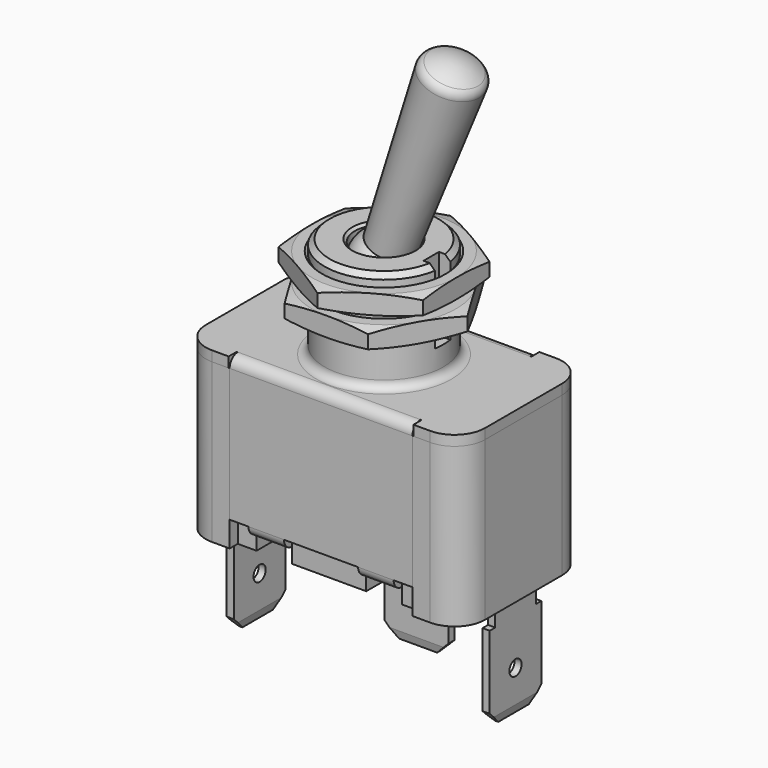
from build123d import *

# Parameters (mm, degrees)
SKETCH_W                = 27.5
SKETCH_H                = 15.5
PAD_DEPTH               = 15.62
FILLET_R                = 3
SKETCH001_W             = 18
SKETCH001_H             = 2
POCKET_DEPTH            = 15.621
SKETCH002_W             = 3.5
SKETCH002_H             = 4
POCKET001_DEPTH         = 2.5
SKETCH003_W             = 27.5
SKETCH003_H             = 15.5
PAD001_DEPTH            = 1
FILLET001_R             = 3
SKETCH004_W             = 18
SKETCH004_H             = 1
PAD002_DEPTH            = 13.12
SKETCH005_W             = 0.1
SKETCH005_H             = 1
POCKET002_DEPTH         = 5
FILLET002_R             = 1
SKETCH006_W             = 3.5
SKETCH006_H             = 3.5
PAD003_DEPTH            = 1
FILLET003_R             = 1
SKETCH007_R             = 5.85
PAD004_DEPTH            = 10
FILLET004_R             = 0.8
CHAMFER_SIZE            = 0.5
SKETCH008_R             = 2.875
POCKET003_DEPTH         = 5
SKETCH009_W             = 2
SKETCH009_H             = 1.9
POCKET004_DEPTH         = 7.25
CHAMFER001_SIZE         = 0.25
BODY002_PLACEMENT_ANGLE = 340
SKETCH011_R             = 1
PAD005_DEPTH            = 0.7
SKETCH012_R             = 0.75
PAD006_DEPTH            = 0.7
FILLET005_R             = 0.7
CHAMFER002_1_SIZE2      = 0.2
CHAMFER002_1_SIZE       = 0.8
CHAMFER002_2_SIZE2      = 0.2
CHAMFER002_2_SIZE       = 0.8
SKETCH014_R             = 1
PAD007_DEPTH            = 0.7
SKETCH015_R             = 0.75
PAD008_DEPTH            = 0.7
FILLET006_R             = 0.7
CHAMFER003_1_SIZE2      = 0.2
CHAMFER003_1_SIZE       = 0.8
CHAMFER003_2_SIZE2      = 0.2
CHAMFER003_2_SIZE       = 0.8
BODY005_PLACEMENT_ANGLE = 270
SKETCH018_R             = 11.711276
POCKET005_DEPTH         = 5
CHAMFER004_SIZE         = 0.25
SKETCH020_R             = 11.711276
POCKET006_DEPTH         = 5
CHAMFER005_SIZE         = 0.25
BODY008_PLACEMENT_ANGLE = 330
SKETCH021_R             = 1
PAD009_DEPTH            = 0.7
SKETCH022_R             = 0.75
PAD010_DEPTH            = 0.7
FILLET007_R             = 0.7
CHAMFER006_1_SIZE2      = 0.2
CHAMFER006_1_SIZE       = 0.8
CHAMFER006_2_SIZE2      = 0.2
CHAMFER006_2_SIZE       = 0.8
BODY009_PLACEMENT_ANGLE = 90


with BuildPart() as body:
    # Sketch → Pad (new body)
    with BuildSketch(Plane.XY):
        Rectangle(SKETCH_W, SKETCH_H)
    extrude(amount=-PAD_DEPTH)

    # Fillet
    fillet_edges = [body.edges().sort_by_distance(p)[0] for p in [
        (-13.75, -7.75, -7.81),
        (13.75, -7.75, -7.81),
        (13.75, 7.75, -7.81),
        (-13.75, 7.75, -7.81),
    ]]
    fillet(fillet_edges, radius=FILLET_R)

    # Sketch001 (on Face5 of Fillet) → Pocket (cut, through all)
    with BuildSketch(Plane(origin=(0, 0, -15.62), x_dir=(1, 0, 0), z_dir=(0, 0, -1))):
        with Locations((0, 7.75)):
            Rectangle(SKETCH001_W, SKETCH001_H)
        with Locations((0, -7.75)):
            Rectangle(SKETCH001_W, SKETCH001_H)
    extrude(amount=-POCKET_DEPTH, mode=Mode.SUBTRACT)

    # Sketch002 (on Face4 of Pocket) → Pocket001 (cut)
    with BuildSketch(Plane(origin=(0, 0, -15.62), x_dir=(1, 0, 0), z_dir=(0, 0, -1))):
        with BuildLine():
            ThreePointArc((8.25, 2.5), (5.75, 0), (8.25, -2.5))
            Line((8.25, -2.5), (12.95, -2.5))
            Line((12.95, 2.5), (12.95, -2.5))
            Line((12.95, 2.5), (8.25, 2.5))
        make_face()
        with BuildLine():
            ThreePointArc((-8.25, -2.5), (-5.75, 0), (-8.25, 2.5))
            Line((-8.25, 2.5), (-12.95, 2.5))
            Line((-12.95, 2.5), (-12.95, -2.5))
            Line((-12.95, -2.5), (-8.25, -2.5))
        make_face()
        with BuildLine():
            ThreePointArc((2.5, 0), (0, 2.5), (-2.5, 0))
            Line((-2.5, 0), (-2.5, -4.7))
            Line((-2.5, -4.7), (2.5, -4.7))
            Line((2.5, -4.7), (2.5, 0))
        make_face()
        with Locations((-5.4, 6.25)):
            Rectangle(SKETCH002_W, SKETCH002_H)
        with Locations((5.4, 6.25)):
            Rectangle(SKETCH002_W, SKETCH002_H)
        with Locations((-5.4, -6.25)):
            Rectangle(SKETCH002_W, SKETCH002_H)
        with Locations((5.4, -6.25)):
            Rectangle(SKETCH002_W, SKETCH002_H)
    extrude(amount=-POCKET001_DEPTH, mode=Mode.SUBTRACT)


with BuildPart() as body001:
    # Sketch003 → Pad001 (new body)
    with BuildSketch(Plane.XY):
        Rectangle(SKETCH003_W, SKETCH003_H)
    extrude(amount=PAD001_DEPTH)

    # Fillet001
    fillet001_edges = [body001.edges().sort_by_distance(p)[0] for p in [
        (-13.75, -7.75, 0.5),
        (13.75, -7.75, 0.5),
        (13.75, 7.75, 0.5),
        (-13.75, 7.75, 0.5),
    ]]
    fillet(fillet001_edges, radius=FILLET001_R)

    # Sketch004 (on Face2 of Fillet001) → Pad002 (join)
    with BuildSketch(Plane(origin=(0, 0, 0), x_dir=(1, 0, 0), z_dir=(0, 0, -1))):
        with Locations((0, 7.25)):
            Rectangle(SKETCH004_W, SKETCH004_H)
        with Locations((0, -7.25)):
            Rectangle(SKETCH004_W, SKETCH004_H)
    extrude(amount=PAD002_DEPTH)

    # Sketch005 (on Face1 of Pad002) → Pocket002 (cut)
    with BuildSketch(Plane(origin=(0, 0, 0), x_dir=(1, 0, 0), z_dir=(0, 0, -1))):
        with Locations((9.05, 7.25)):
            Rectangle(SKETCH005_W, SKETCH005_H)
        with Locations((-9.05, 7.25)):
            Rectangle(SKETCH005_W, SKETCH005_H)
        with Locations((-9.05, -7.25)):
            Rectangle(SKETCH005_W, SKETCH005_H)
        with Locations((9.05, -7.25)):
            Rectangle(SKETCH005_W, SKETCH005_H)
    extrude(amount=-POCKET002_DEPTH, mode=Mode.SUBTRACT)

    # Fillet002
    fillet002_edges = [body001.edges().sort_by_distance(p)[0] for p in [
        (0, 7.75, 1),
        (0, -7.75, 1),
    ]]
    fillet(fillet002_edges, radius=FILLET002_R)

    # Sketch006 (on Face31 of Fillet002) → Pad003 (join)
    with BuildSketch(Plane(origin=(0, 0, -13.12), x_dir=(1, 0, 0), z_dir=(0, 0, -1))):
        with Locations((-5.4, -6)):
            Rectangle(SKETCH006_W, SKETCH006_H)
        with Locations((5.4, -6)):
            Rectangle(SKETCH006_W, SKETCH006_H)
        with Locations((5.4, 6)):
            Rectangle(SKETCH006_W, SKETCH006_H)
        with Locations((-5.4, 6)):
            Rectangle(SKETCH006_W, SKETCH006_H)
    extrude(amount=PAD003_DEPTH)

    # Fillet003
    fillet003_edges = [body001.edges().sort_by_distance(p)[0] for p in [
        (-5.4, 7.75, -14.12),
        (5.4, 7.75, -14.12),
        (5.4, -7.75, -14.12),
        (-5.4, -7.75, -14.12),
    ]]
    fillet(fillet003_edges, radius=FILLET003_R)

    # Sketch007 (on Face22 of Fillet003) → Pad004 (join)
    with BuildSketch(Plane.XY.offset(1)):
        Circle(SKETCH007_R)
    extrude(amount=PAD004_DEPTH)

    # Fillet004
    fillet004_edges = [body001.edges().sort_by_distance(p)[0] for p in [
        (-5.85, 0, 1),
    ]]
    fillet(fillet004_edges, radius=FILLET004_R)

    # Chamfer
    chamfer_edges = [body001.edges().sort_by_distance(p)[0] for p in [
        (-5.85, 0, 11),
    ]]
    chamfer(chamfer_edges, length=CHAMFER_SIZE)

    # Sketch008 (on Face4 of Chamfer) → Pocket003 (cut)
    with BuildSketch(Plane.XY.offset(11)):
        Circle(SKETCH008_R)
    extrude(amount=-POCKET003_DEPTH, mode=Mode.SUBTRACT)

    # Sketch009 (on Face4 of Pocket003) → Pocket004 (cut)
    with BuildSketch(Plane.XY.offset(11)):
        with Locations((5.65, 0)):
            Rectangle(SKETCH009_W, SKETCH009_H)
    extrude(amount=-POCKET004_DEPTH, mode=Mode.SUBTRACT)

    # Chamfer001
    chamfer001_edges = [body001.edges().sort_by_distance(p)[0] for p in [
        (-2.875, 0, 11),
    ]]
    chamfer(chamfer001_edges, length=CHAMFER001_SIZE)


with BuildPart() as body002:
    # Sketch010 → Revolution (revolve)
    with BuildSketch(Plane.XZ):
        with BuildLine():
            ThreePointArc((0, -3), (2.7494384351, -1.2002450966), (2.2, 2.0396078054))
            Line((2.2, 2.0396078054), (2.8991935473, 19.4388425999))
            ThreePointArc((2.8991935473, 19.4388425999), (2.7877332829, 19.9393536383), (2.4428571429, 20.3188205514))
            ThreePointArc((2.4428571429, 20.3188205514), (1.2734878568, 20.8556509793), (0, 21.0396078054))
            Line((0, 21.0396078054), (0, -3))
        make_face()
    revolve(axis=Axis((0, 0, 0), (0, 0, 1)))


with BuildPart() as body002_1:
    # Body002 placement: moved
    add(body002.part.moved(Location((0, 0, 9))).rotate(Axis((0, 0, 9), (0, -1, 0)), BODY002_PLACEMENT_ANGLE))


with BuildPart() as body003:
    # Sketch011 → Pad005 (new body)
    with BuildSketch(Plane.XY):
        with BuildLine():
            ThreePointArc((-2.5, 0), (0, -2.5), (2.5, 0))
            Line((2.5, 0), (2.5, 4.7))
            Line((-2.5, 4.7), (2.5, 4.7))
            Line((-2.5, 4.7), (-2.5, 0))
        make_face()
        Circle(SKETCH011_R, mode=Mode.SUBTRACT)
    extrude(amount=-PAD005_DEPTH)

    # Sketch012 (on Face3 of Pad005) → Pad006 (join)
    with BuildSketch(Plane(origin=(0, 4.7, 0), x_dir=(-1, 0, 0), z_dir=(0, 1, 0))):
        Polygon((-2.5, -0.7), (2.5, -0.7), (2.5, -4.35), (3.175, -4.35), (3.175, -11.55), (1.875, -12.85), (-1.875, -12.85), (-3.175, -11.55), (-3.175, -4.35), (-2.5, -4.35), align=None)
        with Locations((0, -8.85)):
            Circle(SKETCH012_R, mode=Mode.SUBTRACT)
    extrude(amount=-PAD006_DEPTH)

    # Fillet005
    fillet005_edges = [body003.edges().sort_by_distance(p)[0] for p in [
        (0, 4.7, 0),
    ]]
    fillet(fillet005_edges, radius=FILLET005_R)

    # Chamfer002 1
    chamfer002_1_edges = [body003.edges().sort_by_distance(p)[0] for p in [
        (0, 4.7, -12.85),
    ]]
    chamfer002_1_side = body003.faces().sort_by_distance((0, 4.7, -6.887562))[0]
    chamfer(chamfer002_1_edges, length=CHAMFER002_1_SIZE, length2=CHAMFER002_1_SIZE2, reference=chamfer002_1_side)

    # Chamfer002 2
    chamfer002_2_edges = [body003.edges().sort_by_distance(p)[0] for p in [
        (0, 4, -12.85),
    ]]
    chamfer002_2_side = body003.faces().sort_by_distance((0, 4, -6.887562))[0]
    chamfer(chamfer002_2_edges, length=CHAMFER002_2_SIZE, length2=CHAMFER002_2_SIZE2, reference=chamfer002_2_side)


with BuildPart() as body003_1:
    # Body003 placement: moved
    add(body003.part.moved(Location((0, 0, -13.12))))


with BuildPart() as body004:
    # Sketch013 → Revolution001 (revolve)
    with BuildSketch(Plane.YZ):
        Polygon((0, 0), (1, 0), (1, -0.7), (1.35, -0.7), (1.35, -1.2), (0.7, -1.2), (0, -0.5), align=None)
    revolve(axis=Axis((0, 0, 0), (0, 0, 1)))


with BuildPart() as body004_1:
    # Body004 placement: moved
    add(body004.part.moved(Location((0, 0, -13.12))))


with BuildPart() as body005:
    # Sketch014 → Pad007 (new body)
    with BuildSketch(Plane.XY):
        with BuildLine():
            ThreePointArc((-2.5, 0), (0, -2.5), (2.5, 0))
            Line((2.5, 0), (2.5, 4.7))
            Line((-2.5, 4.7), (2.5, 4.7))
            Line((-2.5, 4.7), (-2.5, 0))
        make_face()
        Circle(SKETCH014_R, mode=Mode.SUBTRACT)
    extrude(amount=-PAD007_DEPTH)

    # Sketch015 (on Face3 of Pad007) → Pad008 (join)
    with BuildSketch(Plane(origin=(0, 4.7, 0), x_dir=(-1, 0, 0), z_dir=(0, 1, 0))):
        Polygon((-2.5, -0.7), (2.5, -0.7), (2.5, -4.35), (3.175, -4.35), (3.175, -11.55), (1.875, -12.85), (-1.875, -12.85), (-3.175, -11.55), (-3.175, -4.35), (-2.5, -4.35), align=None)
        with Locations((0, -8.85)):
            Circle(SKETCH015_R, mode=Mode.SUBTRACT)
    extrude(amount=-PAD008_DEPTH)

    # Fillet006
    fillet006_edges = [body005.edges().sort_by_distance(p)[0] for p in [
        (0, 4.7, 0),
    ]]
    fillet(fillet006_edges, radius=FILLET006_R)

    # Chamfer003 1
    chamfer003_1_edges = [body005.edges().sort_by_distance(p)[0] for p in [
        (0, 4.7, -12.85),
    ]]
    chamfer003_1_side = body005.faces().sort_by_distance((0, 4.7, -6.887562))[0]
    chamfer(chamfer003_1_edges, length=CHAMFER003_1_SIZE, length2=CHAMFER003_1_SIZE2, reference=chamfer003_1_side)

    # Chamfer003 2
    chamfer003_2_edges = [body005.edges().sort_by_distance(p)[0] for p in [
        (0, 4, -12.85),
    ]]
    chamfer003_2_side = body005.faces().sort_by_distance((0, 4, -6.887562))[0]
    chamfer(chamfer003_2_edges, length=CHAMFER003_2_SIZE, length2=CHAMFER003_2_SIZE2, reference=chamfer003_2_side)


with BuildPart() as body005_1:
    # Body005 placement: moved
    add(body005.part.moved(Location((8.25, 0, -13.12))).rotate(Axis((8.25, 0, -13.12), (0, 0, 1)), BODY005_PLACEMENT_ANGLE))


with BuildPart() as body006:
    # Sketch016 → Revolution002 (revolve)
    with BuildSketch(Plane.YZ):
        Polygon((0, 0), (1, 0), (1, -0.7), (1.35, -0.7), (1.35, -1.2), (0.7, -1.2), (0, -0.5), align=None)
    revolve(axis=Axis((0, 0, 0), (0, 0, 1)))


with BuildPart() as body006_1:
    # Body006 placement: moved
    add(body006.part.moved(Location((8.25, 0, -13.12))))


with BuildPart() as body007:
    # Sketch017 → Revolution003 (revolve)
    with BuildSketch(Plane.XZ):
        Polygon((5.85, 0.95), (7.11, 0.95), (10.6554482672, 0), (7.11, -0.95), (5.85, -0.95), align=None)
    revolve(axis=Axis((0, 0, 0), (0, 0, 1)))

    # Sketch018 (on Face1 of Revolution003) → Pocket005 (cut)
    with BuildSketch(Plane(origin=(0, 0, 0.95), x_dir=(-1, 0, 0), z_dir=(0, 0, 1))):
        Circle(SKETCH018_R)
        Polygon((0, 8.2099208279), (-7.11, 4.1049604139), (-7.11, -4.1049604139), (0, -8.2099208279), (7.11, -4.1049604139), (7.11, 4.1049604139), align=None, mode=Mode.SUBTRACT)
    extrude(amount=-POCKET005_DEPTH, mode=Mode.SUBTRACT)

    # Chamfer004
    chamfer004_edges = [body007.edges().sort_by_distance(p)[0] for p in [
        (-5.85, 0, 0.95),
        (-5.85, 0, -0.95),
    ]]
    chamfer(chamfer004_edges, length=CHAMFER004_SIZE)


with BuildPart() as body007_1:
    # Body007 placement: moved
    add(body007.part.moved(Location((0, 0, 9))))


with BuildPart() as body008:
    # Sketch019 → Revolution004 (revolve)
    with BuildSketch(Plane.XZ):
        Polygon((5.85, 0.95), (7.11, 0.95), (10.6554482672, 0), (7.11, -0.95), (5.85, -0.95), align=None)
    revolve(axis=Axis((0, 0, 0), (0, 0, 1)))

    # Sketch020 (on Face1 of Revolution004) → Pocket006 (cut)
    with BuildSketch(Plane(origin=(0, 0, 0.95), x_dir=(-1, 0, 0), z_dir=(0, 0, 1))):
        Circle(SKETCH020_R)
        Polygon((0, 8.2099208279), (-7.11, 4.1049604139), (-7.11, -4.1049604139), (0, -8.2099208279), (7.11, -4.1049604139), (7.11, 4.1049604139), align=None, mode=Mode.SUBTRACT)
    extrude(amount=-POCKET006_DEPTH, mode=Mode.SUBTRACT)

    # Chamfer005
    chamfer005_edges = [body008.edges().sort_by_distance(p)[0] for p in [
        (-5.85, 0, 0.95),
        (-5.85, 0, -0.95),
    ]]
    chamfer(chamfer005_edges, length=CHAMFER005_SIZE)


with BuildPart() as body008_1:
    # Body008 placement: moved
    add(body008.part.moved(Location((0, 0, 6.3))).rotate(Axis((0, 0, 6.3), (0, 0, -1)), BODY008_PLACEMENT_ANGLE))


with BuildPart() as body009:
    # Sketch021 → Pad009 (new body)
    with BuildSketch(Plane.XY):
        with BuildLine():
            ThreePointArc((-2.5, 0), (0, -2.5), (2.5, 0))
            Line((2.5, 0), (2.5, 4.7))
            Line((-2.5, 4.7), (2.5, 4.7))
            Line((-2.5, 4.7), (-2.5, 0))
        make_face()
        Circle(SKETCH021_R, mode=Mode.SUBTRACT)
    extrude(amount=-PAD009_DEPTH)

    # Sketch022 (on Face3 of Pad009) → Pad010 (join)
    with BuildSketch(Plane(origin=(0, 4.7, 0), x_dir=(-1, 0, 0), z_dir=(0, 1, 0))):
        Polygon((-2.5, -0.7), (2.5, -0.7), (2.5, -4.35), (3.175, -4.35), (3.175, -11.55), (1.875, -12.85), (-1.875, -12.85), (-3.175, -11.55), (-3.175, -4.35), (-2.5, -4.35), align=None)
        with Locations((0, -8.85)):
            Circle(SKETCH022_R, mode=Mode.SUBTRACT)
    extrude(amount=-PAD010_DEPTH)

    # Fillet007
    fillet007_edges = [body009.edges().sort_by_distance(p)[0] for p in [
        (0, 4.7, 0),
    ]]
    fillet(fillet007_edges, radius=FILLET007_R)

    # Chamfer006 1
    chamfer006_1_edges = [body009.edges().sort_by_distance(p)[0] for p in [
        (0, 4.7, -12.85),
    ]]
    chamfer006_1_side = body009.faces().sort_by_distance((0, 4.7, -6.887562))[0]
    chamfer(chamfer006_1_edges, length=CHAMFER006_1_SIZE, length2=CHAMFER006_1_SIZE2, reference=chamfer006_1_side)

    # Chamfer006 2
    chamfer006_2_edges = [body009.edges().sort_by_distance(p)[0] for p in [
        (0, 4, -12.85),
    ]]
    chamfer006_2_side = body009.faces().sort_by_distance((0, 4, -6.887562))[0]
    chamfer(chamfer006_2_edges, length=CHAMFER006_2_SIZE, length2=CHAMFER006_2_SIZE2, reference=chamfer006_2_side)


with BuildPart() as body009_1:
    # Body009 placement: moved
    add(body009.part.moved(Location((-8.25, 0, -13.12))).rotate(Axis((-8.25, 0, -13.12), (0, 0, 1)), BODY009_PLACEMENT_ANGLE))


with BuildPart() as body010:
    # Sketch023 → Revolution005 (revolve)
    with BuildSketch(Plane.YZ):
        Polygon((0, 0), (1, 0), (1, -0.7), (1.35, -0.7), (1.35, -1.2), (0.7, -1.2), (0, -0.5), align=None)
    revolve(axis=Axis((0, 0, 0), (0, 0, 1)))


with BuildPart() as body010_1:
    # Body010 placement: moved
    add(body010.part.moved(Location((-8.25, 0, -13.12))))


solid = Compound([body.part, body001.part, body002_1.part, body003_1.part, body004_1.part, body005_1.part, body006_1.part, body007_1.part, body008_1.part, body009_1.part, body010_1.part])
